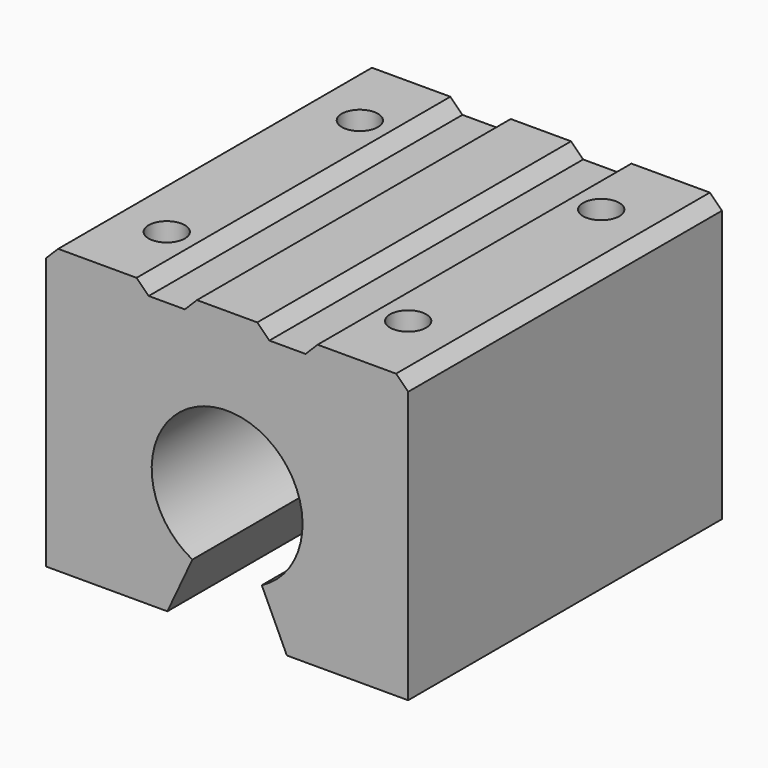
from build123d import *

# Parameters (mm, degrees)
F1_DEPTH = 65
F3_SIZE  = 2
F2_R     = 3
F4_DEPTH = 12


with BuildPart() as f1:
    # F0 (on Front) → F1 (new body)
    with BuildSketch(Plane.XZ):
        with BuildLine():
            ThreePointArc((-5.75, -11.098986), (0, 12.5), (5.75, -11.098986))
            Line((5.75, -11.098986), (9.900611, -20))
            Line((9.900611, -20), (30, -20))
            Line((30, -20), (30, -11.098986))
            Line((30, -11.098986), (30, 27))
            Line((30, 27), (15, 27))
            Line((15, 27), (13, 25))
            Line((13, 25), (7, 25))
            Line((7, 25), (5, 27))
            Line((5, 27), (0, 27))
            Line((0, 27), (-5, 27))
            Line((-5, 27), (-7, 25))
            Line((-7, 25), (-13, 25))
            Line((-13, 25), (-15, 27))
            Line((-15, 27), (-30, 27))
            Line((-30, 27), (-30, -11.098986))
            Line((-30, -11.098986), (-30, -20))
            Line((-30, -20), (-9.900611, -20))
            Line((-9.900611, -20), (-5.75, -11.098986))
        make_face()
    extrude(amount=-F1_DEPTH)

    # F3
    f3_edges = [f1.edges().sort_by_distance(p)[0] for p in [
        (30, 32.5, 27),
        (-30, 32.5, 27),
    ]]
    chamfer(f3_edges, length=F3_SIZE)

    # F2 (on face) → F4 (cut)
    with BuildSketch(Plane.XY.offset(27)):
        with Locations((-20, 52.5)):
            Circle(F2_R)
        with Locations((-20, 12.5)):
            Circle(F2_R)
        with Locations((20, 52.5)):
            Circle(F2_R)
        with Locations((20, 12.5)):
            Circle(F2_R)
    extrude(amount=-F4_DEPTH, mode=Mode.SUBTRACT)


solid = f1.part
